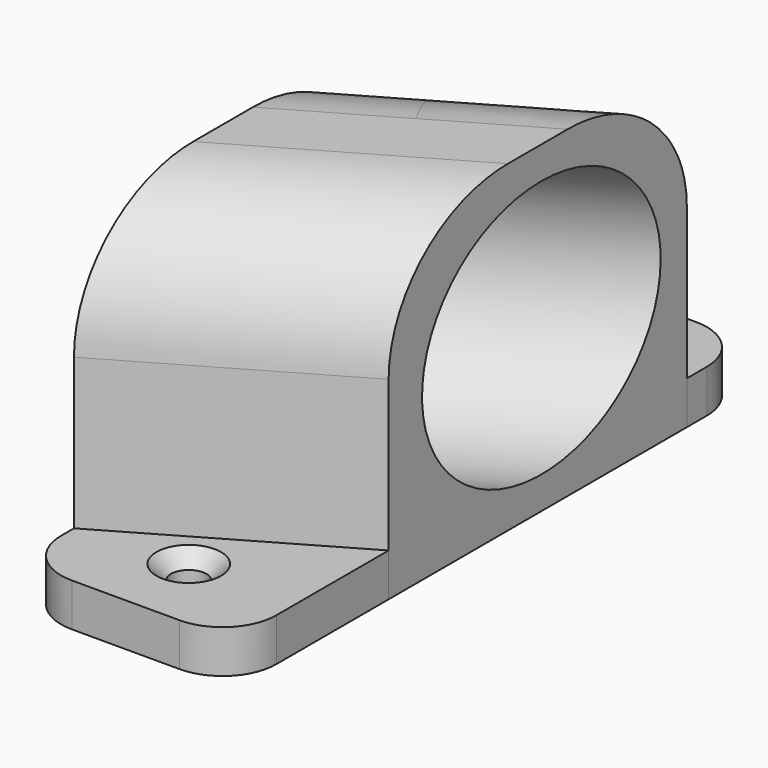
from build123d import *

# Parameters (mm, degrees)
F1_DEPTH          = 4
F2_DEPTH          = 30
F3_W              = 18.0332418531
F3_H              = 11.783156544
F4_DEPTH          = 25
F6_R              = 12
F7_DEPTH          = 67.5
F7_DEPTH_BACK     = 25
F8_DEPTH          = 25
F10_D             = 3.3
F10_CSINK_D       = 6
F10_CSINK_ANGLE   = 90
F10_2_D           = 3.3
F10_2_CSINK_D     = 6
F10_2_CSINK_ANGLE = 90
F11_R             = 5
F11_2_R           = 5
F12_R             = 12


with BuildPart() as f1:
    # F0 (on Top) → F1 (new body)
    with BuildSketch(Plane.XY):
        Polygon((10, 30), (-10, 30), (-10, 11.1300059103), (10, 22.677011294), align=None)
    extrude(amount=F1_DEPTH)

    # F10 (through all)
    with Locations(Plane.XY.offset(4)):
        with Locations((0, 22.677011294), (0, -22.677011294)):
            CounterSinkHole(F10_D / 2, F10_CSINK_D / 2, counter_sink_angle=F10_CSINK_ANGLE)

    # F11
    f11_edges = [f1.edges().sort_by_distance(p)[0] for p in [
        (-10, 30, 2),
        (10, 30, 2),
    ]]
    fillet(f11_edges, radius=F11_R)


with BuildPart() as f1b:
    # F0 (on Top) → F1, piece 2 (new body)
    with BuildSketch(Plane.XY):
        Polygon((10, -11.9640048573), (-10, -23.5110102411), (-10, -30), (10, -30), align=None)
    extrude(amount=F1_DEPTH)

    # F10#2 (through all)
    with Locations(Plane.XY.offset(4)):
        with Locations((0, 22.677011294), (0, -22.677011294)):
            CounterSinkHole(F10_2_D / 2, F10_2_CSINK_D / 2, counter_sink_angle=F10_2_CSINK_ANGLE)

    # F11#2
    f11_2_edges = [f1b.edges().sort_by_distance(p)[0] for p in [
        (10, -30, 2),
        (-10, -30, 2),
    ]]
    fillet(f11_2_edges, radius=F11_2_R)


with BuildPart() as f2:
    # F0 (on Top) → F2 (new body)
    with BuildSketch(Plane.XY):
        Polygon((10, 22.677011294), (-10, 11.1300059103), (-10, -23.5110102411), (10, -11.9640048573), align=None)
    extrude(amount=F2_DEPTH)

    # F3 (on face) → F4 (join)
    with BuildSketch(Plane(origin=(-7.3194339313, 12.6776314516, 0), x_dir=(-0.8660254038, -0.5, 0), z_dir=(-0.5, 0.8660254038, 0))):
        with Locations((-10.9821387583, 21.4814543724)):
            Rectangle(F3_W, F3_H)
    extrude(amount=F4_DEPTH)

    # F6 (on offset) → F7 (cut, two sides)
    with BuildSketch(Plane(origin=(17.3194339313, 9.9993798424, 0), x_dir=(-0.5, 0.8660254038, 0), z_dir=(0.8660254038, 0.5, 0))) as f7_sk:
        with Locations((0, 15)):
            Circle(F6_R)
    extrude(amount=-F7_DEPTH, mode=Mode.SUBTRACT)
    extrude(f7_sk.sketch, amount=F7_DEPTH_BACK, mode=Mode.SUBTRACT)

    # F8 (cut): a face of the model
    f8_faces = [f2.faces().sort_by_distance(p)[0] for p in [
        (3.75, 33.5023288414, 21.4814543724),
    ]]
    extrude(f8_faces, amount=-F8_DEPTH, mode=Mode.SUBTRACT)

    # F12
    f12_edges = [f2.edges().sort_by_distance(p)[0] for p in [
        (0, 16.903509, 30),
        (0, -17.737508, 30),
    ]]
    fillet(f12_edges, radius=F12_R)


solid = Compound([f1.part, f1b.part, f2.part])
